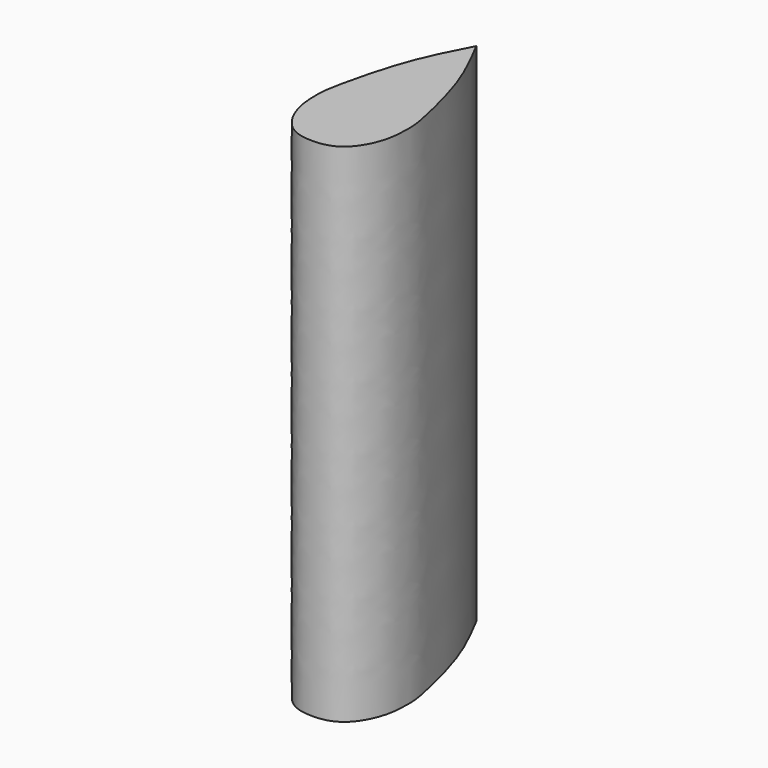
from build123d import *

# Parameters (mm, degrees)
F1_DEPTH = 200


with BuildPart() as f1:
    # F0 (on Top) → F1 (new body)
    with BuildSketch(Plane.XY):
        with BuildLine():
            Line((0, 81), (0, 0))
            add(Edge.make_bspline(
                [(0, 0), (2.4414012931, 0), (7.2892202461, 0.6579321834), (13.3372539654, 5.4728510851), (17.8722801521, 15.0973935927), (18.1186253128, 21.7860770173), (18.1186253128, 25.3795273538)],
                knots=[0, 0, 0, 0, 0.2258464816, 0.4556521835, 0.7269585904, 1, 1, 1, 1], degree=3))
            add(Edge.make_bspline(
                [(18.1186253128, 25.3795273538), (18.1186253128, 28.2744007406), (17.279161492, 33.1907514303), (13.6581055791, 48.8983056619), (8.4166016344, 64.8289057603), (2.8326627301, 75.5769757289), (0, 81)],
                knots=[0, 0, 0, 0, 0.1849546174, 0.4447225772, 0.7189837837, 1, 1, 1, 1], degree=3))
        make_face()
        with BuildLine():
            add(Edge.make_bspline(
                [(0, 0), (-2.4414012931, 0), (-7.2892202461, 0.6579321834), (-13.3372539654, 5.4728510851), (-17.8722801521, 15.0973935927), (-18.1186253128, 21.7860770173), (-18.1186253128, 25.3795273538)],
                knots=[0, 0, 0, 0, 0.2258464816, 0.4556521835, 0.7269585904, 1, 1, 1, 1], degree=3))
            Line((0, 0), (0, 81))
            add(Edge.make_bspline(
                [(-18.1186253128, 25.3795273538), (-18.1186253128, 28.2744007406), (-17.279161492, 33.1907514303), (-13.6581055791, 48.8983056619), (-8.4166016344, 64.8289057603), (-2.8326627301, 75.5769757289), (0, 81)],
                knots=[0, 0, 0, 0, 0.1849546174, 0.4447225772, 0.7189837837, 1, 1, 1, 1], degree=3))
        make_face()
    extrude(amount=F1_DEPTH)


solid = f1.part
